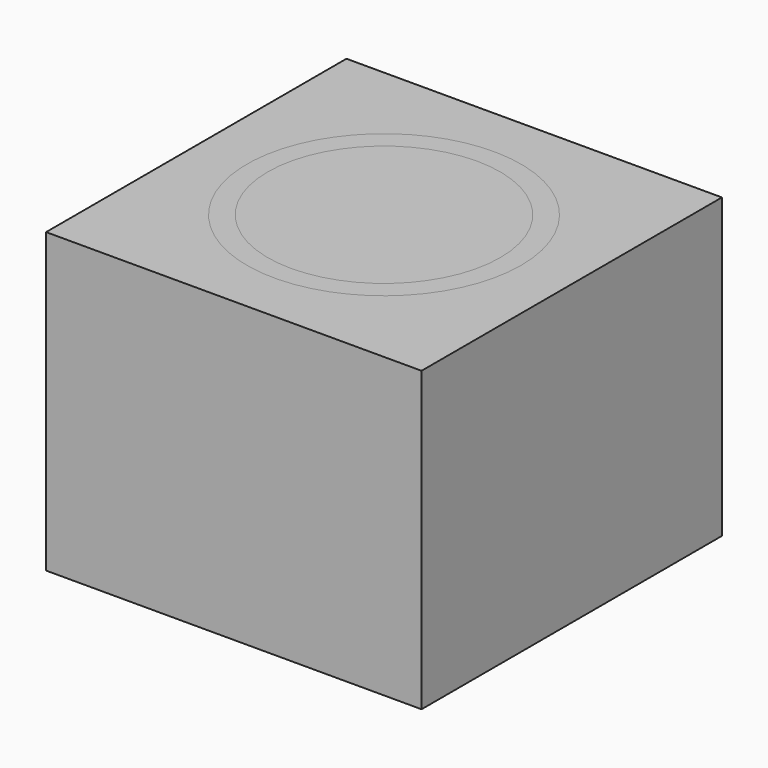
from build123d import *

# Parameters (mm, degrees)
CYLINDER_R        = 0.39
CYLINDER_DEPTH    = 1
CYLINDER001_R     = 0.4
CYLINDER001_DEPTH = 1
CYLINDER004_R     = 0.39
CYLINDER004_DEPTH = 1
CYLINDER003_R     = 0.39
CYLINDER003_DEPTH = 1
CYLINDER002_R     = 0.46
CYLINDER002_DEPTH = 1
CYLINDER005_R     = 0.46
CYLINDER005_DEPTH = 1
BOX_W             = 1.26
BOX_H             = 1.26
BOX_DEPTH         = 1


with BuildPart() as fuel_region:
    # Cylinder → Cylinder (new body)
    with BuildSketch(Plane.XY.offset(-0.5)):
        Circle(CYLINDER_R)
    extrude(amount=CYLINDER_DEPTH)


with BuildPart() as gap_region:
    # Cylinder001 → Cylinder001 (new body)
    with BuildSketch(Plane.XY.offset(-0.5)):
        Circle(CYLINDER001_R)
    extrude(amount=CYLINDER001_DEPTH)

    # Cut: cut fuel_region
    add(fuel_region.part, mode=Mode.SUBTRACT)


with BuildPart() as cylinder004:
    # Cylinder004 → Cylinder004 (new body)
    with BuildSketch(Plane.XY.offset(-0.5)):
        Circle(CYLINDER004_R)
    extrude(amount=CYLINDER004_DEPTH)


with BuildPart() as fuel_region001:
    # Cylinder003 → Cylinder003 (new body)
    with BuildSketch(Plane.XY.offset(-0.5)):
        Circle(CYLINDER003_R)
    extrude(amount=CYLINDER003_DEPTH)


with BuildPart() as clad_region:
    # Cylinder002 → Cylinder002 (new body)
    with BuildSketch(Plane.XY.offset(-0.5)):
        Circle(CYLINDER002_R)
    extrude(amount=CYLINDER002_DEPTH)

    # Cut001: cut fuel_region001
    add(fuel_region001.part, mode=Mode.SUBTRACT)


with BuildPart() as clad_or001:
    # Cylinder005 → Cylinder005 (new body)
    with BuildSketch(Plane.XY.offset(-0.5)):
        Circle(CYLINDER005_R)
    extrude(amount=CYLINDER005_DEPTH)


with BuildPart() as water_region:
    # Box → Box (new body)
    with BuildSketch(Plane(origin=(-0.63, -0.63, -0.5), x_dir=(1, 0, 0), z_dir=(0, 0, 1))):
        with Locations((0.63, 0.63)):
            Rectangle(BOX_W, BOX_H)
    extrude(amount=BOX_DEPTH)

    # Cut002: cut clad_or001
    add(clad_or001.part, mode=Mode.SUBTRACT)


solid = Compound([gap_region.part, cylinder004.part, clad_region.part, water_region.part])
